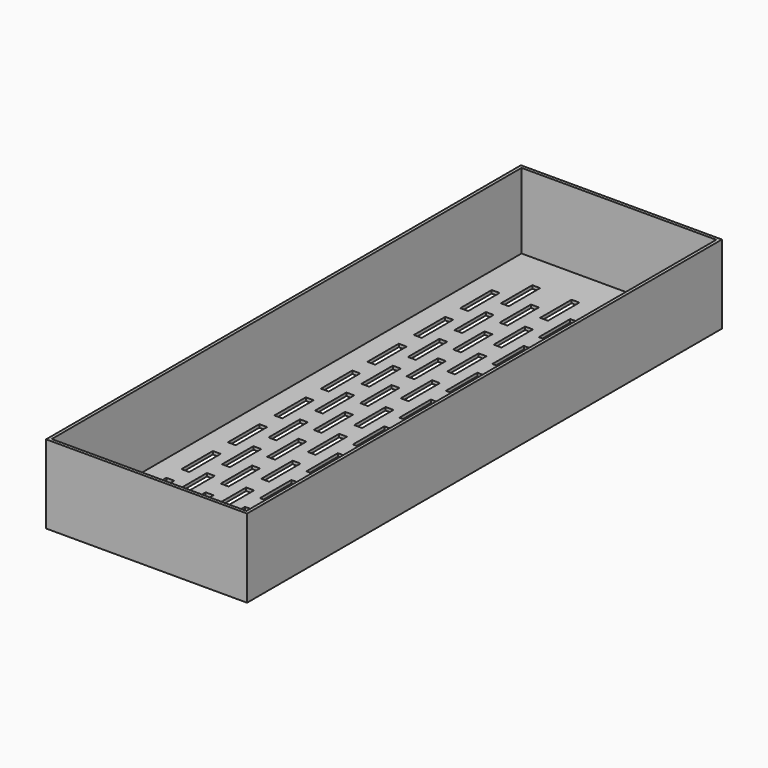
from build123d import *

# Parameters (mm, degrees)
F1_W     = 25.6
F1_H     = 75.6
F2_DEPTH = 10
F3_T     = -0.4
F4_W     = 1
F4_H     = 5
F5_DEPTH = 10.001


with BuildPart() as f2:
    # F1 (on Top) → F2 (new body)
    with BuildSketch(Plane.XY):
        with Locations((12.8, 37.8)):
            Rectangle(F1_W, F1_H)
    extrude(amount=F2_DEPTH)

    # F3
    f3_openings = [f2.faces().sort_by_distance(p)[0] for p in [
        (12.8, 37.8, 10),
    ]]
    offset(amount=F3_T, openings=f3_openings)

    # F4 (on face) → F5 (cut, through all)
    with BuildSketch(Plane(origin=(0, 0, 0), x_dir=(1, 0, 0), z_dir=(0, 0, -1))):
        with Locations((3.5, -5.5)):
            Rectangle(F4_W, F4_H)
        with Locations((6, -8.8333333333)):
            Rectangle(F4_W, F4_H)
        with Locations((6, -16.2333333333)):
            Rectangle(F4_W, F4_H)
        with Locations((3.5, -12.9)):
            Rectangle(F4_W, F4_H)
        with Locations((6, -23.6333333333)):
            Rectangle(F4_W, F4_H)
        with Locations((3.5, -20.3)):
            Rectangle(F4_W, F4_H)
        with Locations((6, -31.0333333333)):
            Rectangle(F4_W, F4_H)
        with Locations((3.5, -27.7)):
            Rectangle(F4_W, F4_H)
        with Locations((6, -38.4333333333)):
            Rectangle(F4_W, F4_H)
        with Locations((3.5, -35.1)):
            Rectangle(F4_W, F4_H)
        with Locations((6, -45.8333333333)):
            Rectangle(F4_W, F4_H)
        with Locations((3.5, -42.5)):
            Rectangle(F4_W, F4_H)
        with Locations((6, -53.2333333333)):
            Rectangle(F4_W, F4_H)
        with Locations((3.5, -49.9)):
            Rectangle(F4_W, F4_H)
        with Locations((6, -60.6333333333)):
            Rectangle(F4_W, F4_H)
        with Locations((3.5, -57.3)):
            Rectangle(F4_W, F4_H)
        with Locations((6, -68.0333333333)):
            Rectangle(F4_W, F4_H)
        with Locations((3.5, -64.7)):
            Rectangle(F4_W, F4_H)
        with Locations((11, -8.8333333333)):
            Rectangle(F4_W, F4_H)
        with Locations((8.5, -5.5)):
            Rectangle(F4_W, F4_H)
        with Locations((11, -16.2333333333)):
            Rectangle(F4_W, F4_H)
        with Locations((8.5, -12.9)):
            Rectangle(F4_W, F4_H)
        with Locations((11, -23.6333333333)):
            Rectangle(F4_W, F4_H)
        with Locations((8.5, -20.3)):
            Rectangle(F4_W, F4_H)
        with Locations((11, -31.0333333333)):
            Rectangle(F4_W, F4_H)
        with Locations((8.5, -27.7)):
            Rectangle(F4_W, F4_H)
        with Locations((11, -38.4333333333)):
            Rectangle(F4_W, F4_H)
        with Locations((8.5, -35.1)):
            Rectangle(F4_W, F4_H)
        with Locations((11, -45.8333333333)):
            Rectangle(F4_W, F4_H)
        with Locations((8.5, -42.5)):
            Rectangle(F4_W, F4_H)
        with Locations((11, -53.2333333333)):
            Rectangle(F4_W, F4_H)
        with Locations((8.5, -49.9)):
            Rectangle(F4_W, F4_H)
        with Locations((11, -60.6333333333)):
            Rectangle(F4_W, F4_H)
        with Locations((8.5, -57.3)):
            Rectangle(F4_W, F4_H)
        with Locations((11, -68.0333333333)):
            Rectangle(F4_W, F4_H)
        with Locations((8.5, -64.7)):
            Rectangle(F4_W, F4_H)
        with Locations((16, -8.8333333333)):
            Rectangle(F4_W, F4_H)
        with Locations((13.5, -5.5)):
            Rectangle(F4_W, F4_H)
        with Locations((16, -16.2333333333)):
            Rectangle(F4_W, F4_H)
        with Locations((13.5, -12.9)):
            Rectangle(F4_W, F4_H)
        with Locations((16, -23.6333333333)):
            Rectangle(F4_W, F4_H)
        with Locations((13.5, -20.3)):
            Rectangle(F4_W, F4_H)
        with Locations((16, -31.0333333333)):
            Rectangle(F4_W, F4_H)
        with Locations((13.5, -27.7)):
            Rectangle(F4_W, F4_H)
        with Locations((16, -38.4333333333)):
            Rectangle(F4_W, F4_H)
        with Locations((13.5, -35.1)):
            Rectangle(F4_W, F4_H)
        with Locations((16, -45.8333333333)):
            Rectangle(F4_W, F4_H)
        with Locations((13.5, -42.5)):
            Rectangle(F4_W, F4_H)
        with Locations((16, -53.2333333333)):
            Rectangle(F4_W, F4_H)
        with Locations((13.5, -49.9)):
            Rectangle(F4_W, F4_H)
        with Locations((16, -60.6333333333)):
            Rectangle(F4_W, F4_H)
        with Locations((13.5, -57.3)):
            Rectangle(F4_W, F4_H)
        with Locations((16, -68.0333333333)):
            Rectangle(F4_W, F4_H)
        with Locations((13.5, -64.7)):
            Rectangle(F4_W, F4_H)
        with Locations((21, -8.8333333333)):
            Rectangle(F4_W, F4_H)
        with Locations((18.5, -5.5)):
            Rectangle(F4_W, F4_H)
        with Locations((21, -16.2333333333)):
            Rectangle(F4_W, F4_H)
        with Locations((18.5, -12.9)):
            Rectangle(F4_W, F4_H)
        with Locations((21, -23.6333333333)):
            Rectangle(F4_W, F4_H)
        with Locations((18.5, -20.3)):
            Rectangle(F4_W, F4_H)
        with Locations((21, -31.0333333333)):
            Rectangle(F4_W, F4_H)
        with Locations((18.5, -27.7)):
            Rectangle(F4_W, F4_H)
        with Locations((21, -38.4333333333)):
            Rectangle(F4_W, F4_H)
        with Locations((18.5, -35.1)):
            Rectangle(F4_W, F4_H)
        with Locations((21, -45.8333333333)):
            Rectangle(F4_W, F4_H)
        with Locations((18.5, -42.5)):
            Rectangle(F4_W, F4_H)
        with Locations((21, -53.2333333333)):
            Rectangle(F4_W, F4_H)
        with Locations((18.5, -49.9)):
            Rectangle(F4_W, F4_H)
        with Locations((21, -60.6333333333)):
            Rectangle(F4_W, F4_H)
        with Locations((18.5, -57.3)):
            Rectangle(F4_W, F4_H)
        with Locations((21, -68.0333333333)):
            Rectangle(F4_W, F4_H)
        with Locations((18.5, -64.7)):
            Rectangle(F4_W, F4_H)
    extrude(amount=-F5_DEPTH, mode=Mode.SUBTRACT)


solid = f2.part
